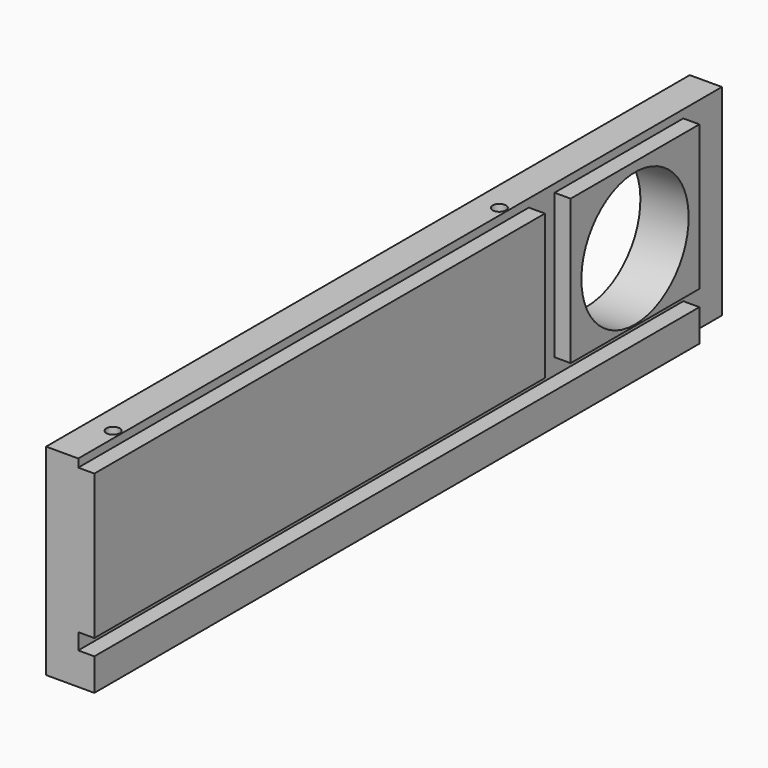
from build123d import *

# Parameters (mm, degrees)
SKETCH021_W             = 75
SKETCH021_H             = 300
PAD007_DEPTH            = 18
SKETCH023_W             = 75
SKETCH023_H             = 18
SKETCH023_W_2           = 57
SKETCH023_H_2           = 12
POCKET014_DEPTH         = 6
SKETCH022_W             = 6
SKETCH022_H             = 6
SKETCH022_W_2           = 3
POCKET015_DEPTH         = 300
SKETCH024_R             = 25
POCKET016_DEPTH         = 18
SKETCH031_R             = 2.5
POCKET020_DEPTH         = 75
BODY008_PLACEMENT_ANGLE = 90


with BuildPart() as part:
    # Sketch021 → Pad007 (new body)
    with BuildSketch(Plane.XY):
        with Locations((-37.5, 150)):
            Rectangle(SKETCH021_W, SKETCH021_H)
    extrude(amount=PAD007_DEPTH)

    # Sketch023 → Pocket014 (cut)
    with BuildSketch(Plane.XY.offset(18)):
        with Locations((-37.5, 291)):
            Rectangle(SKETCH023_W, SKETCH023_H)
        with Locations((-46.5, 216)):
            Rectangle(SKETCH023_W_2, SKETCH023_H_2)
    extrude(amount=-POCKET014_DEPTH, mode=Mode.SUBTRACT)

    # Sketch022 → Pocket015 (cut)
    with BuildSketch(Plane.XZ):
        with Locations((-15, 15)):
            Rectangle(SKETCH022_W, SKETCH022_H)
        with Locations((-73.5, 15)):
            Rectangle(SKETCH022_W_2, SKETCH022_H)
    extrude(amount=-POCKET015_DEPTH, mode=Mode.SUBTRACT)

    # Sketch024 → Pocket016 (cut)
    with BuildSketch(Plane(origin=(0, 0, 0), x_dir=(1, 0, 0), z_dir=(0, 0, -1))):
        with Locations((-43.5, -252)):
            Circle(SKETCH024_R)
    extrude(amount=-POCKET016_DEPTH, mode=Mode.SUBTRACT)

    # Sketch031 → Pocket020 (cut)
    with BuildSketch(Plane(origin=(-75, 0, 0), x_dir=(0, -1, 0), z_dir=(-1, 0, 0))):
        with Locations((-20, 9)):
            Circle(SKETCH031_R)
        with Locations((-200, 9)):
            Circle(SKETCH031_R)
    extrude(amount=-POCKET020_DEPTH, mode=Mode.SUBTRACT)


with BuildPart() as part_1:
    # Body008 placement: moved
    add(part.part.moved(Location((-131, 0, 0))).rotate(Axis((-131, 0, 0), (0, 1, 0)), BODY008_PLACEMENT_ANGLE))


solid = part_1.part
